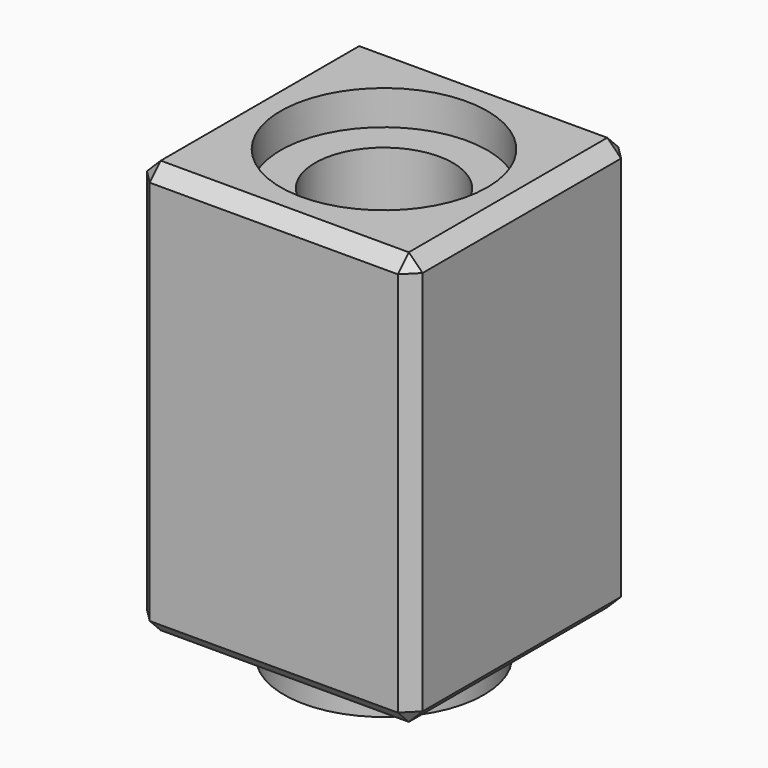
from build123d import *

# Parameters (mm, degrees)
F0_W     = 40
F0_H     = 40
F1_DEPTH = 60
F2_R     = 15
F3_DEPTH = 60
F5_START = -5
F4_R     = 15
F4_R_2   = 10
F5_DEPTH = 60
F6_SIZE  = 2
F7_W     = 88.496286422
F7_H     = 74.0717835724
F7_R     = 14.5
F8_DEPTH = 5


with BuildPart() as f1:
    # F0 (on Top) → F1 (new body)
    with BuildSketch(Plane.XY):
        Rectangle(F0_W, F0_H)
    extrude(amount=F1_DEPTH)

    # F2 (on face) → F3 (cut)
    with BuildSketch(Plane.XY.offset(60)):
        Circle(F2_R)
    extrude(amount=-F3_DEPTH, mode=Mode.SUBTRACT)

    # F4 (on face) → F5 (join)
    with BuildSketch(Plane.XY.offset(60).offset(F5_START)):
        Circle(F4_R)
        Circle(F4_R_2, mode=Mode.SUBTRACT)
    extrude(amount=-F5_DEPTH)

    # F6
    f6_edges = [f1.edges().sort_by_distance(p)[0] for p in [
        (20, -20, 30),
        (20, 20, 30),
        (-20, -20, 30),
        (20, 0, 60),
        (0, -20, 60),
        (-20, 0, 60),
        (0, 20, 60),
        (-20, 20, 30),
        (20, 0, 0),
        (0, -20, 0),
        (-20, 0, 0),
        (0, 20, 0),
    ]]
    chamfer(f6_edges, length=F6_SIZE)

    # F7 (on face) → F8 (cut)
    with BuildSketch(Plane(origin=(0, 0, -5), x_dir=(1, 0, 0), z_dir=(0, 0, -1))):
        with Locations((-0.5847793072, -3.7035886198)):
            Rectangle(F7_W, F7_H)
        Circle(F7_R, mode=Mode.SUBTRACT)
    extrude(amount=-F8_DEPTH, mode=Mode.SUBTRACT)


solid = f1.part
